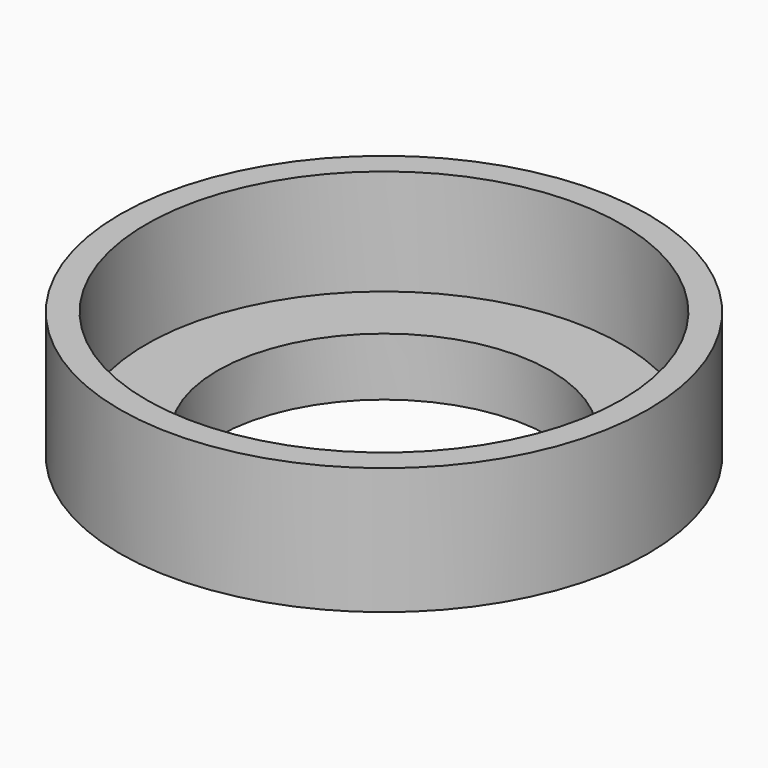
from build123d import *

# Parameters (mm, degrees)
F0_R     = 4.5085
F1_DEPTH = 0.889
F2_R     = 6.35
F4_DEPTH = 3.048
F3_R     = 4.0005
F6_DEPTH = 10.668
F5_R     = 5.715
F7_DEPTH = 2.54


with BuildPart() as f1:
    # F0 (on Top) → F1 (new body)
    with BuildSketch(Plane.XY):
        Circle(F0_R)
    extrude(amount=-F1_DEPTH)

    # F2 (on face) → F4 (join)
    with BuildSketch(Plane.XY):
        Circle(F2_R)
    extrude(amount=F4_DEPTH)

    # F3 (on face) → F6 (cut, symmetric)
    with BuildSketch(Plane.XY):
        Circle(F3_R)
    extrude(amount=F6_DEPTH, both=True, mode=Mode.SUBTRACT)

    # F5 (on face) → F7 (cut)
    with BuildSketch(Plane.XY.offset(3.048)):
        Circle(F5_R)
    extrude(amount=-F7_DEPTH, mode=Mode.SUBTRACT)


solid = f1.part
